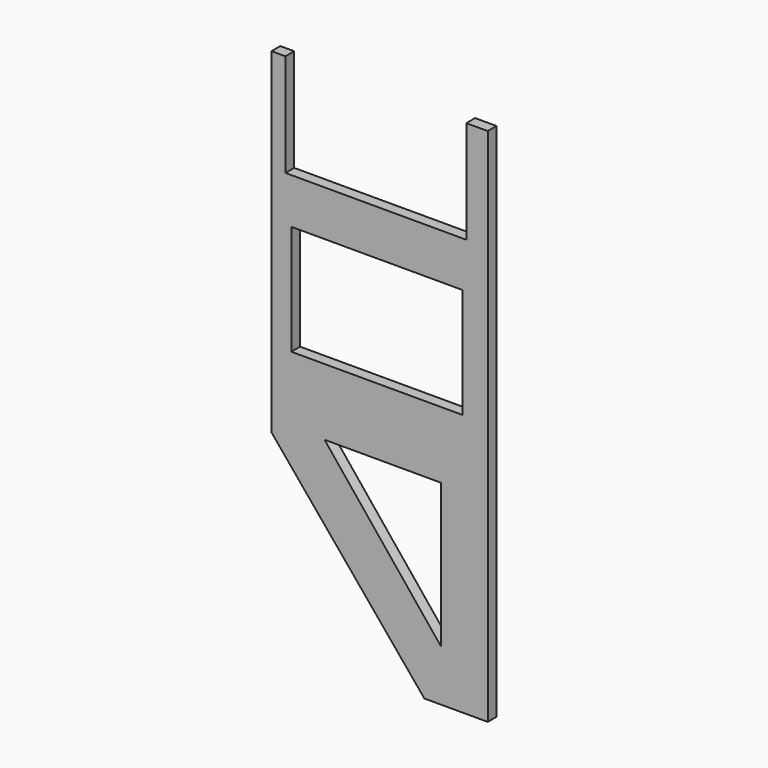
from build123d import *

# Parameters (mm, degrees)
PAD018_DEPTH    = 50
POCKET003_DEPTH = 59
SKETCH022_W     = 780.912842
SKETCH022_H     = 501.60791
POCKET004_DEPTH = 60
SKETCH021_W     = 824.843506
SKETCH021_H     = 493.205078
POCKET005_DEPTH = 60


with BuildPart() as part:
    # Sketch023 → Pad018 (new body)
    with BuildSketch(Plane.XZ):
        Polygon((-3036.804688, 4960.135254), (-3036.804688, 3429.500488), (-2339.515625, 2587.651367), (-2050.395752, 2587.651367), (-2050.395752, 4960.135254), align=None)
    extrude(amount=PAD018_DEPTH)

    # Sketch024 (on Face7 of Pad018) → Pocket003 (cut)
    with BuildSketch(Plane.XZ.offset(50)):
        Polygon((-2794.763916, 3478.686768), (-2263.660645, 2821.494141), (-2263.660645, 3478.686768), align=None)
    extrude(amount=-POCKET003_DEPTH, mode=Mode.SUBTRACT)

    # Sketch022 (on Face5 of Pocket003) → Pocket004 (cut)
    with BuildSketch(Plane.XZ.offset(50)):
        with Locations((-2555.920776, 4033.548584)):
            Rectangle(SKETCH022_W, SKETCH022_H)
    extrude(amount=-POCKET004_DEPTH, mode=Mode.SUBTRACT)

    # Sketch021 (on Face5 of Pocket004) → Pocket005 (cut)
    with BuildSketch(Plane.XZ.offset(50)):
        with Locations((-2560.651733, 4738.429199)):
            Rectangle(SKETCH021_W, SKETCH021_H)
    extrude(amount=-POCKET005_DEPTH, mode=Mode.SUBTRACT)


with BuildPart() as part_1:
    # Body016 placement: moved
    add(part.part.moved(Location((0, 1572, 0))))


solid = part_1.part
